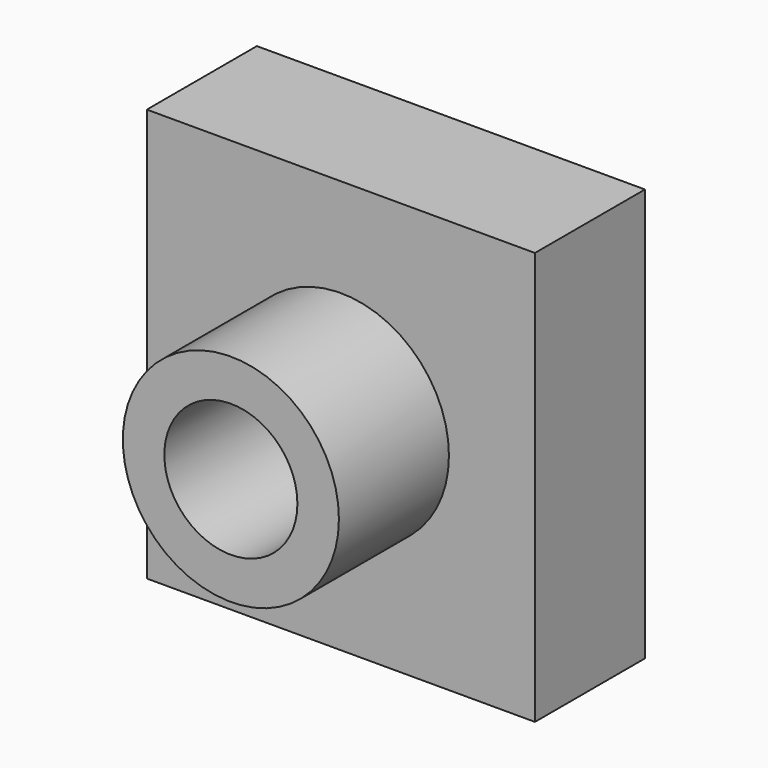
from build123d import *

# Parameters (mm, degrees)
F0_W      = 71.678758
F0_H      = 76.247908
F1_DEPTH  = 25.4
F2_R      = 19.954612
F2_R_2    = 12.288069
F3_DEPTH  = 25.4
F3_FACE_R = 12.288069
F4_DEPTH  = 25.401


with BuildPart() as f1:
    # F0 (on Front) → F1 (new body)
    with BuildSketch(Plane.XZ):
        Rectangle(F0_W, F0_H)
    extrude(amount=F1_DEPTH)

    # F2 (on face) → F3 (join)
    with BuildSketch(Plane.XZ.offset(25.4)):
        Circle(F2_R)
        Circle(F2_R_2, mode=Mode.SUBTRACT)
    extrude(amount=F3_DEPTH)

    # F3_face (on face) → F4 (cut, through all)
    with BuildSketch(Plane.XZ.offset(25.4)):
        Circle(F3_FACE_R)
    extrude(amount=-F4_DEPTH, mode=Mode.SUBTRACT)


solid = f1.part
